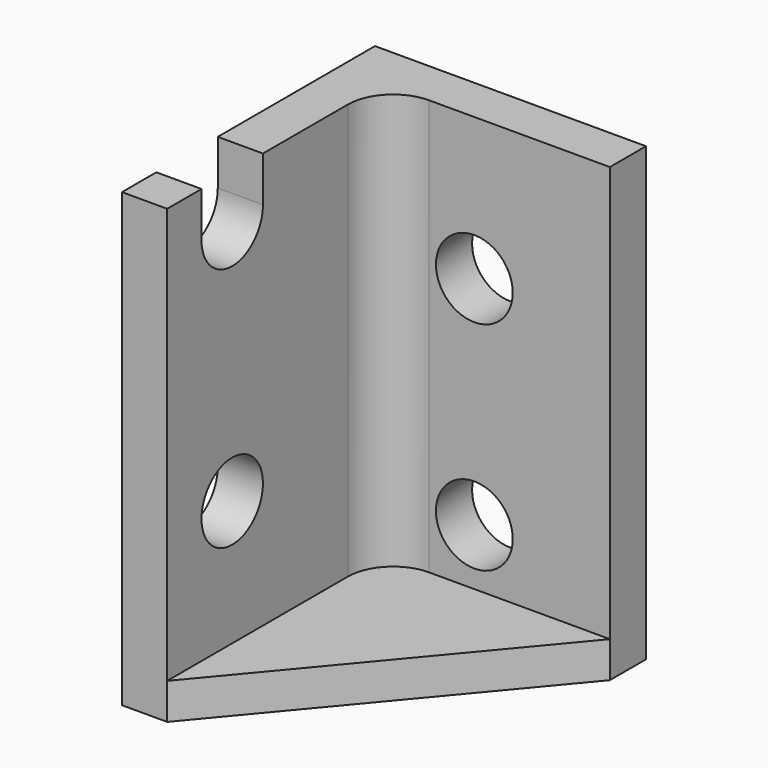
from build123d import *

# Parameters (mm, degrees)
F1_DEPTH = 50
F2_DEPTH = 4
F3_R     = 4.25
F4_DEPTH = 25
F5_R     = 4.25
F6_DEPTH = 25
F7_R     = 5


with BuildPart() as f1:
    # F0 (on Top) → F1 (new body)
    with BuildSketch(Plane.XY):
        Polygon((-14.747666, -4.400732), (-9.747666, -4.400732), (-9.747666, 25.599268), (15.252334, 25.599268), (15.252334, 30.599268), (-14.747666, 30.599268), align=None)
    extrude(amount=F1_DEPTH)

    # F0 (on Top) → F2 (join)
    with BuildSketch(Plane.XY):
        Polygon((-9.747666, 25.599268), (-9.747666, -4.400732), (15.252334, 25.599268), align=None)
    extrude(amount=F2_DEPTH)

    # F3 (on face) → F4 (cut)
    with BuildSketch(Plane(origin=(-14.747666, 0, 0), x_dir=(0, -1, 0), z_dir=(-1, 0, 0))):
        with Locations((-4.599268, 17.855786)):
            Circle(F3_R)
        with BuildLine():
            ThreePointArc((-0.349268, 45), (-4.599268, 49.25), (-8.849268, 45))
            ThreePointArc((-8.849268, 45), (-4.599268, 40.75), (-0.349268, 45))
        make_face()
        with BuildLine():
            Line((-0.349268, 50), (-8.849268, 50))
            Line((-8.849268, 50), (-8.849268, 45))
            ThreePointArc((-8.849268, 45), (-4.599268, 49.25), (-0.349268, 45))
            Line((-0.349268, 45), (-0.349268, 50))
        make_face()
    extrude(amount=-F4_DEPTH, mode=Mode.SUBTRACT)

    # F5 (on face) → F6 (cut)
    with BuildSketch(Plane(origin=(0, 30.599268, 0), x_dir=(-1, 0, 0), z_dir=(0, 1, 0))):
        with Locations((-0.252334, 34.25)):
            Circle(F5_R)
        with Locations((-0.252334, 10.25)):
            Circle(F5_R)
    extrude(amount=-F6_DEPTH, mode=Mode.SUBTRACT)

    # F7
    f7_edges = [f1.edges().sort_by_distance(p)[0] for p in [
        (-9.747666, 25.599268, 27),
    ]]
    fillet(f7_edges, radius=F7_R)


solid = f1.part
